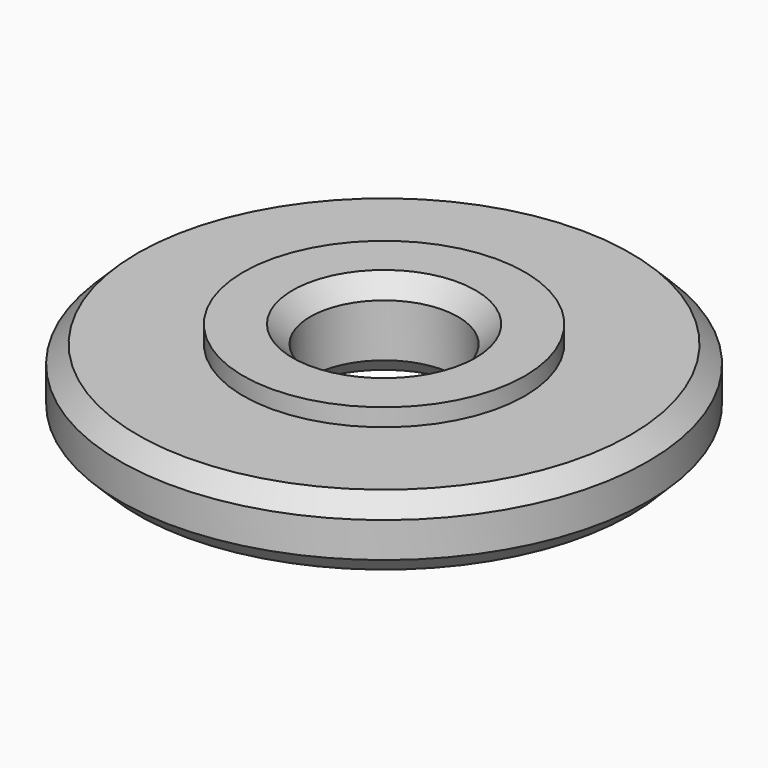
from build123d import *

# Parameters (mm, degrees)
CYLINDER_R        = 15
CYLINDER_DEPTH    = 4
CYLINDER002_R     = 8
CYLINDER002_DEPTH = 5
CYLINDER003_R     = 4.2
CYLINDER003_DEPTH = 10
CHAMFER_SIZE      = 1
CHAMFER001_SIZE   = 1


with BuildPart() as part:
    # Cylinder → Cylinder (join)
    with BuildSketch(Plane.XY):
        Circle(CYLINDER_R)
    extrude(amount=CYLINDER_DEPTH)

    # Cylinder002 → Cylinder002 (join)
    with BuildSketch(Plane.XY):
        Circle(CYLINDER002_R)
    extrude(amount=CYLINDER002_DEPTH)

    # Cylinder003 → Cylinder003 (cut)
    with BuildSketch(Plane.XY):
        Circle(CYLINDER003_R)
    extrude(amount=CYLINDER003_DEPTH, mode=Mode.SUBTRACT)

    # Chamfer
    chamfer_edges = [part.edges().sort_by_distance(p)[0] for p in [
        (-15, 0, 4),
        (15, 0, 2),
        (-15, 0, 0),
    ]]
    chamfer(chamfer_edges, length=CHAMFER_SIZE)

    # Chamfer001
    chamfer001_edges = [part.edges().sort_by_distance(p)[0] for p in [
        (-4.2, 0, 5),
        (4.2, 0, 2.5),
        (-4.2, 0, 0),
    ]]
    chamfer(chamfer001_edges, length=CHAMFER001_SIZE)


solid = part.part
